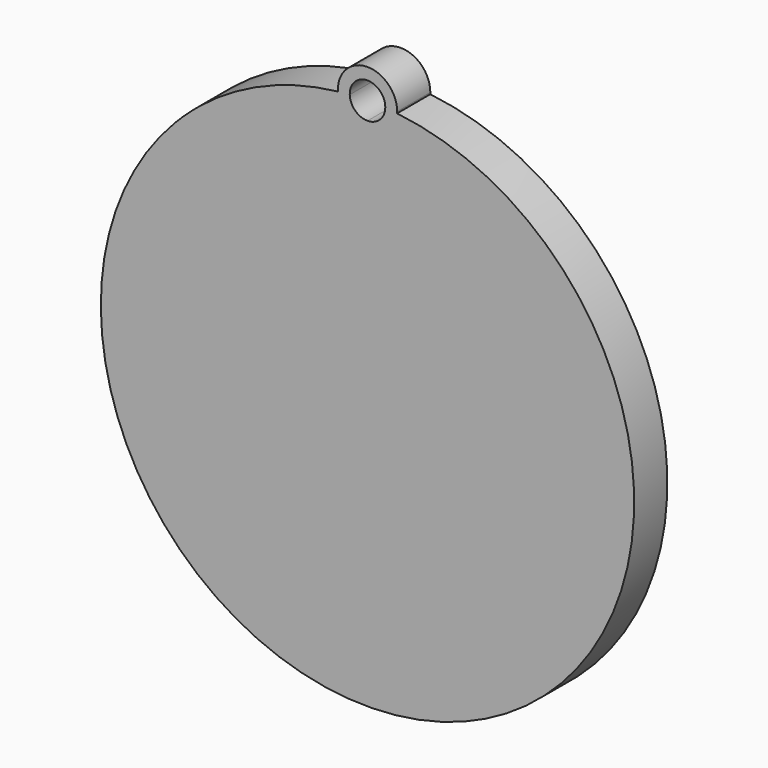
from build123d import *

# Parameters (mm, degrees)
F0_W     = 10
F0_H     = 10
F0_W_2   = 5
F0_H_2   = 5
F1_DEPTH = 3.5
F2_DEPTH = 2.5


with BuildPart() as f1:
    # F0 (on Front) → F1 (new body)
    with BuildSketch(Plane.XZ):
        with BuildLine():
            Line((-12.8921356237, 20), (-10.3581867662, 20))
            ThreePointArc((-10.3581867662, 20), (-5.7307218874, 22.3057951603), (-0.6801378445, 23.4111111111))
            ThreePointArc((-0.6801378445, 23.4111111111), (-1.0788638136, 24.0909382102), (-1.2461389938, 24.8611111111))
            ThreePointArc((-1.2461389938, 24.8611111111), (-7.4169282835, 23.2637750452), (-12.8921356237, 20))
        make_face()
        with BuildLine():
            ThreePointArc((3.75, 25), (1.1805287275, 27.499034562), (-1.2461389938, 24.8611111111))
            ThreePointArc((-1.2461389938, 24.8611111111), (-0.7481470607, 24.9111001141), (-0.2491664351, 24.95))
            ThreePointArc((-0.2491664351, 24.95), (1.2249965261, 26.4997915943), (2.75, 25))
            ThreePointArc((2.75, 25), (2.7497915943, 24.9749965261), (2.7491664351, 24.95))
            ThreePointArc((2.7491664351, 24.95), (3.2481470607, 24.9111001141), (3.7461389938, 24.8611111111))
            ThreePointArc((3.7461389938, 24.8611111111), (3.749034562, 24.9305287275), (3.75, 25))
        make_face()
        with BuildLine():
            ThreePointArc((2.7491664351, 24.95), (2.2928326851, 23.9218070715), (1.250000012, 23.5))
            ThreePointArc((1.250000012, 23.5), (2.2160917891, 23.4777660073), (3.1801378445, 23.4111111111))
            ThreePointArc((3.1801378445, 23.4111111111), (3.5788638136, 24.0909382102), (3.7461389938, 24.8611111111))
            ThreePointArc((3.7461389938, 24.8611111111), (3.2481470607, 24.9111001141), (2.7491664351, 24.95))
        make_face()
        with BuildLine():
            ThreePointArc((-1.2461389938, 24.8611111111), (-1.0788638136, 24.0909382102), (-0.6801378445, 23.4111111111))
            ThreePointArc((-0.6801378445, 23.4111111111), (0.2839082229, 23.4777660078), (1.250000012, 23.5))
            ThreePointArc((1.250000012, 23.5), (0.2071673236, 23.9218070632), (-0.2491664351, 24.95))
            ThreePointArc((-0.2491664351, 24.95), (-0.7481470607, 24.9111001141), (-1.2461389938, 24.8611111111))
        make_face()
        with BuildLine():
            ThreePointArc((1.250000012, 23.5), (0.2839082229, 23.4777660078), (-0.6801378445, 23.4111111111))
            ThreePointArc((-0.6801378445, 23.4111111111), (0.1828126271, 22.739223339), (1.25, 22.5))
            Line((1.25, 22.5), (1.25, 23.5))
        make_face()
        with BuildLine():
            Line((1.25, 23.5), (1.25, 22.5))
            ThreePointArc((1.25, 22.5), (2.3171873729, 22.739223339), (3.1801378445, 23.4111111111))
            ThreePointArc((3.1801378445, 23.4111111111), (2.2160917891, 23.4777660073), (1.250000012, 23.5))
        make_face()
        with BuildLine():
            ThreePointArc((-0.6801378445, 23.4111111111), (-5.7307218874, 22.3057951603), (-10.3581867662, 20))
            Line((-10.3581867662, 20), (1.25, 20))
            Line((1.25, 20), (1.25, 22.5))
            ThreePointArc((1.25, 22.5), (0.1828126271, 22.739223339), (-0.6801378445, 23.4111111111))
        make_face()
        with BuildLine():
            Line((2, -2), (0, -2))
            Line((0, -2), (0, -12))
            Line((0, -12), (-10, -12))
            Line((-10, -12), (-13.940457531, -12))
            ThreePointArc((-13.940457531, -12), (9.0602622187, -16.9935836643), (22.25, 2.5))
            ThreePointArc((22.25, 2.5), (16.7666506491, 16.650390547), (3.1801378445, 23.4111111111))
            ThreePointArc((3.1801378445, 23.4111111111), (2.3171873729, 22.739223339), (1.25, 22.5))
            Line((1.25, 22.5), (1.25, 20))
            Line((1.25, 20), (17.5, 12))
            Line((17.5, 12), (2.5, 12))
            Line((2.5, 12), (2.5, 10.5))
            Line((2.5, 10.5), (7.5, 10.5))
            Line((7.5, 10.5), (12.5, 10.5))
            Line((12.5, 10.5), (12.5, 5.5))
            Line((12.5, 5.5), (12.5, 0.5))
            Line((12.5, 0.5), (7.5, 0.5))
            Line((7.5, 0.5), (7.5, 4.5))
            Line((7.5, 4.5), (6.5, 4.5))
            Line((6.5, 4.5), (6.5, -0.5))
            Line((6.5, -0.5), (2, -0.5))
            Line((2, -0.5), (2, -2))
        make_face()
        with Locations((7, -7)):
            Rectangle(F0_W, F0_H, mode=Mode.SUBTRACT)
        with BuildLine():
            ThreePointArc((22.25, 2.5), (9.0602622187, -16.9935836643), (-13.940457531, -12))
            Line((-13.940457531, -12), (-15, -12))
            Line((-15, -12), (-15.9546505341, -12))
            ThreePointArc((-15.9546505341, -12), (8.9683341138, -18.6347419788), (23.75, 2.5))
            ThreePointArc((23.75, 2.5), (18.0192147604, 17.5014478074), (3.7461389938, 24.8611111111))
            ThreePointArc((3.7461389938, 24.8611111111), (3.5788638136, 24.0909382102), (3.1801378445, 23.4111111111))
            ThreePointArc((3.1801378445, 23.4111111111), (16.7666506491, 16.650390547), (22.25, 2.5))
        make_face()
        Polygon((-15, 11.5), (0, 11.5), (1.25, 11.5), (1.25, 12), (1.25, 19.5), (-2.5, 17.6538461538), (-8.5, 14.7), align=None)
        Polygon((1.25, 19.5), (1.25, 12), (2.5, 12), (17.5, 12), (1.25, 20), align=None)
        with Locations((5, 8)):
            Rectangle(F0_W_2, F0_H_2)
        with Locations((10, 8)):
            Rectangle(F0_W_2, F0_H_2)
        Polygon((7.5, 5.5), (7.5, 4.5), (7.5, 0.5), (12.5, 0.5), (12.5, 5.5), align=None)
        Polygon((1.5, 4.5), (1.5, 0), (1.5, -0.5), (2, -0.5), (6.5, -0.5), (6.5, 4.5), align=None)
        Polygon((0, 10), (0, 0), (1.5, 0), (1.5, 4.5), (6.5, 4.5), (7.5, 4.5), (7.5, 5.5), (2.5, 5.5), (2.5, 10.5), (2.5, 12), (1.25, 12), (1.25, 11.5), (0, 11.5), align=None)
        Polygon((1.5, 0), (0, 0), (0, -1), (0, -2), (2, -2), (2, -0.5), (1.5, -0.5), align=None)
        with Locations((7, -7)):
            Rectangle(F0_W, F0_H)
        with Locations((-5, -7)):
            Rectangle(F0_W, F0_H)
        with BuildLine():
            Line((0, -1), (0, 0))
            Line((0, 0), (-10, 0))
            Line((-10, 0), (-10, 10))
            Line((-10, 10), (-7.5, 10))
            Line((-7.5, 10), (0, 10))
            Line((0, 10), (0, 11.5))
            Line((0, 11.5), (-15, 11.5))
            Line((-15, 11.5), (-15, 4))
            Line((-15, 4), (-15, -10.8017855944))
            ThreePointArc((-15, -10.8017855944), (-14.4816407879, -11.4109840817), (-13.940457531, -12))
            Line((-13.940457531, -12), (-10, -12))
            Line((-10, -12), (-10, -2))
            Line((-10, -2), (0, -2))
            Line((0, -2), (0, -1))
        make_face()
        Polygon((-10, 0), (0, 0), (0, 10), (-7.5, 10), (-10, 10), align=None)
        Polygon((-10, 0), (0, 0), (0, 10), (-7.5, 10), (-10, 10), align=None)
        with BuildLine():
            Line((0, -1), (0, 0))
            Line((0, 0), (-10, 0))
            Line((-10, 0), (-10, 10))
            Line((-10, 10), (-7.5, 10))
            Line((-7.5, 10), (0, 10))
            Line((0, 10), (0, 11.5))
            Line((0, 11.5), (-15, 11.5))
            Line((-15, 11.5), (-15, 4))
            Line((-15, 4), (-15, -10.8017855944))
            ThreePointArc((-15, -10.8017855944), (-14.4816407879, -11.4109840817), (-13.940457531, -12))
            Line((-13.940457531, -12), (-10, -12))
            Line((-10, -12), (-10, -2))
            Line((-10, -2), (0, -2))
            Line((0, -2), (0, -1))
        make_face()
        with BuildLine():
            Line((-15, 15.8017855944), (-15, 11.5))
            Line((-15, 11.5), (-8.5, 14.7))
            Line((-8.5, 14.7), (-8.5, 19.1923076923))
            Line((-8.5, 19.1923076923), (-2.5, 19.1923076923))
            Line((-2.5, 19.1923076923), (-2.5, 17.6538461538))
            Line((-2.5, 17.6538461538), (1.25, 19.5))
            Line((1.25, 19.5), (1.25, 20))
            Line((1.25, 20), (-10.3581867662, 20))
            ThreePointArc((-10.3581867662, 20), (-12.8363726177, 18.0747907362), (-15, 15.8017855944))
        make_face()
        Polygon((-8.5, 19.1923076923), (-8.5, 14.7), (-2.5, 17.6538461538), (-2.5, 19.1923076923), align=None)
        with BuildLine():
            Line((-15, 18.0623744975), (-15, 15.8017855944))
            ThreePointArc((-15, 15.8017855944), (-12.8363726177, 18.0747907362), (-10.3581867662, 20))
            Line((-10.3581867662, 20), (-12.8921356237, 20))
            ThreePointArc((-12.8921356237, 20), (-13.9769194222, 19.0647494672), (-15, 18.0623744975))
        make_face()
        with BuildLine():
            ThreePointArc((-15, -10.8017855944), (-19.75, 2.5), (-15, 15.8017855944))
            Line((-15, 15.8017855944), (-15, 18.0623744975))
            ThreePointArc((-15, 18.0623744975), (-21.2386638264, 3.2141423554), (-15.9546505341, -12))
            Line((-15.9546505341, -12), (-15, -12))
            Line((-15, -12), (-15, -10.8017855944))
        make_face()
        with BuildLine():
            Line((-15, 4), (-15, 11.5))
            Line((-15, 11.5), (-15, 15.8017855944))
            ThreePointArc((-15, 15.8017855944), (-19.75, 2.5), (-15, -10.8017855944))
            Line((-15, -10.8017855944), (-15, 4))
        make_face()
        with BuildLine():
            ThreePointArc((-15, -10.8017855944), (-19.75, 2.5), (-15, 15.8017855944))
            Line((-15, 15.8017855944), (-15, 18.0623744975))
            ThreePointArc((-15, 18.0623744975), (-21.2386638264, 3.2141423554), (-15.9546505341, -12))
            Line((-15.9546505341, -12), (-15, -12))
            Line((-15, -12), (-15, -10.8017855944))
        make_face()
        with BuildLine():
            ThreePointArc((-13.940457531, -12), (-14.4816407879, -11.4109840817), (-15, -10.8017855944))
            Line((-15, -10.8017855944), (-15, -12))
            Line((-15, -12), (-13.940457531, -12))
        make_face()
    extrude(amount=F1_DEPTH)

    # F0 (on Front) → F2 (cut)
    with BuildSketch(Plane.XZ):
        with BuildLine():
            Line((2, -2), (0, -2))
            Line((0, -2), (0, -12))
            Line((0, -12), (-10, -12))
            Line((-10, -12), (-13.940457531, -12))
            ThreePointArc((-13.940457531, -12), (9.0602622187, -16.9935836643), (22.25, 2.5))
            ThreePointArc((22.25, 2.5), (16.7666506491, 16.650390547), (3.1801378445, 23.4111111111))
            ThreePointArc((3.1801378445, 23.4111111111), (2.3171873729, 22.739223339), (1.25, 22.5))
            Line((1.25, 22.5), (1.25, 20))
            Line((1.25, 20), (17.5, 12))
            Line((17.5, 12), (2.5, 12))
            Line((2.5, 12), (2.5, 10.5))
            Line((2.5, 10.5), (7.5, 10.5))
            Line((7.5, 10.5), (12.5, 10.5))
            Line((12.5, 10.5), (12.5, 5.5))
            Line((12.5, 5.5), (12.5, 0.5))
            Line((12.5, 0.5), (7.5, 0.5))
            Line((7.5, 0.5), (7.5, 4.5))
            Line((7.5, 4.5), (6.5, 4.5))
            Line((6.5, 4.5), (6.5, -0.5))
            Line((6.5, -0.5), (2, -0.5))
            Line((2, -0.5), (2, -2))
        make_face()
        with Locations((7, -7)):
            Rectangle(F0_W, F0_H, mode=Mode.SUBTRACT)
        Polygon((0, 10), (0, 0), (1.5, 0), (1.5, 4.5), (6.5, 4.5), (7.5, 4.5), (7.5, 5.5), (2.5, 5.5), (2.5, 10.5), (2.5, 12), (1.25, 12), (1.25, 11.5), (0, 11.5), align=None)
        Polygon((1.5, 0), (0, 0), (0, -1), (0, -2), (2, -2), (2, -0.5), (1.5, -0.5), align=None)
        with BuildLine():
            Line((0, -1), (0, 0))
            Line((0, 0), (-10, 0))
            Line((-10, 0), (-10, 10))
            Line((-10, 10), (-7.5, 10))
            Line((-7.5, 10), (0, 10))
            Line((0, 10), (0, 11.5))
            Line((0, 11.5), (-15, 11.5))
            Line((-15, 11.5), (-15, 4))
            Line((-15, 4), (-15, -10.8017855944))
            ThreePointArc((-15, -10.8017855944), (-14.4816407879, -11.4109840817), (-13.940457531, -12))
            Line((-13.940457531, -12), (-10, -12))
            Line((-10, -12), (-10, -2))
            Line((-10, -2), (0, -2))
            Line((0, -2), (0, -1))
        make_face()
        with BuildLine():
            Line((0, -1), (0, 0))
            Line((0, 0), (-10, 0))
            Line((-10, 0), (-10, 10))
            Line((-10, 10), (-7.5, 10))
            Line((-7.5, 10), (0, 10))
            Line((0, 10), (0, 11.5))
            Line((0, 11.5), (-15, 11.5))
            Line((-15, 11.5), (-15, 4))
            Line((-15, 4), (-15, -10.8017855944))
            ThreePointArc((-15, -10.8017855944), (-14.4816407879, -11.4109840817), (-13.940457531, -12))
            Line((-13.940457531, -12), (-10, -12))
            Line((-10, -12), (-10, -2))
            Line((-10, -2), (0, -2))
            Line((0, -2), (0, -1))
        make_face()
        with BuildLine():
            Line((-15, 4), (-15, 11.5))
            Line((-15, 11.5), (-15, 15.8017855944))
            ThreePointArc((-15, 15.8017855944), (-19.75, 2.5), (-15, -10.8017855944))
            Line((-15, -10.8017855944), (-15, 4))
        make_face()
        with BuildLine():
            Line((-15, 15.8017855944), (-15, 11.5))
            Line((-15, 11.5), (-8.5, 14.7))
            Line((-8.5, 14.7), (-8.5, 19.1923076923))
            Line((-8.5, 19.1923076923), (-2.5, 19.1923076923))
            Line((-2.5, 19.1923076923), (-2.5, 17.6538461538))
            Line((-2.5, 17.6538461538), (1.25, 19.5))
            Line((1.25, 19.5), (1.25, 20))
            Line((1.25, 20), (-10.3581867662, 20))
            ThreePointArc((-10.3581867662, 20), (-12.8363726177, 18.0747907362), (-15, 15.8017855944))
        make_face()
        with BuildLine():
            ThreePointArc((-0.6801378445, 23.4111111111), (-5.7307218874, 22.3057951603), (-10.3581867662, 20))
            Line((-10.3581867662, 20), (1.25, 20))
            Line((1.25, 20), (1.25, 22.5))
            ThreePointArc((1.25, 22.5), (0.1828126271, 22.739223339), (-0.6801378445, 23.4111111111))
        make_face()
    extrude(amount=F2_DEPTH, mode=Mode.SUBTRACT)


solid = f1.part
